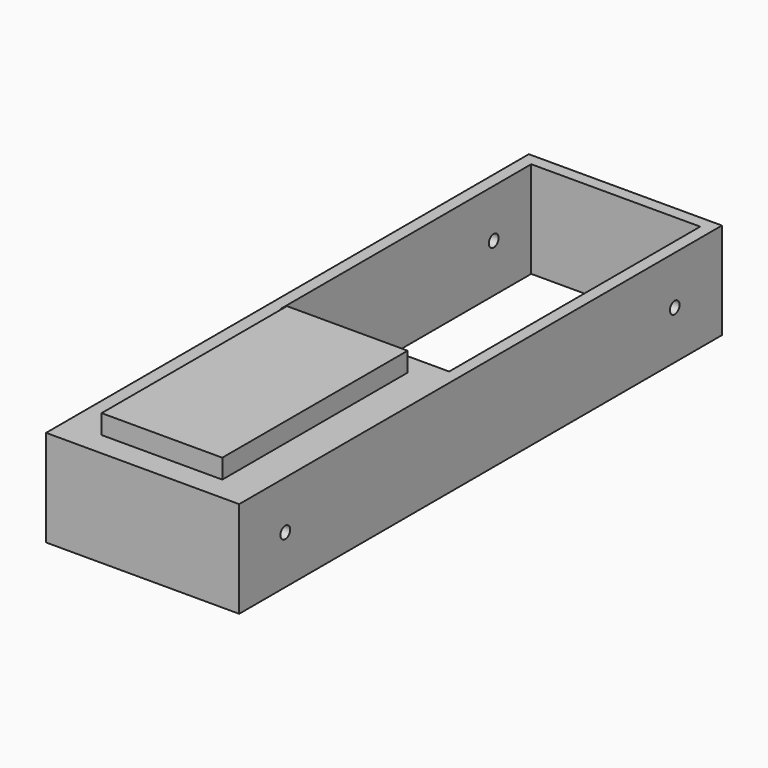
from build123d import *

# Parameters (mm, degrees)
F0_W     = 40
F0_H     = 125
F1_DEPTH = 20
F2_W     = 35
F2_H     = 65
F3_DEPTH = 42.6
F5_W     = 25
F5_H     = 48
F6_DEPTH = 4
F4_R     = 1.25
F7_DEPTH = 180
F8_R     = 1.25
F9_DEPTH = 71


with BuildPart() as f1:
    # F0 (on Top) → F1 (new body)
    with BuildSketch(Plane.XY):
        Rectangle(F0_W, F0_H)
    extrude(amount=F1_DEPTH)

    # F2 (on face) → F3 (cut)
    with BuildSketch(Plane(origin=(0, 0, 0), x_dir=(1, 0, 0), z_dir=(0, 0, -1))):
        with Locations((0, -27.5)):
            Rectangle(F2_W, F2_H)
    extrude(amount=-F3_DEPTH, mode=Mode.SUBTRACT)

    # F5 (on face) → F6 (join)
    with BuildSketch(Plane.XY.offset(20)):
        with Locations((0, -33.5)):
            Rectangle(F5_W, F5_H)
    extrude(amount=F6_DEPTH)

    # F4 (on face) → F7 (cut)
    with BuildSketch(Plane.YZ.offset(20)):
        with Locations((-50.5643, 10)):
            Circle(F4_R)
    extrude(amount=-F7_DEPTH, mode=Mode.SUBTRACT)

    # F8 (on face) → F9 (cut)
    with BuildSketch(Plane.YZ.offset(20)):
        with Locations((50.281025, 10)):
            Circle(F8_R)
    extrude(amount=-F9_DEPTH, mode=Mode.SUBTRACT)


solid = f1.part
